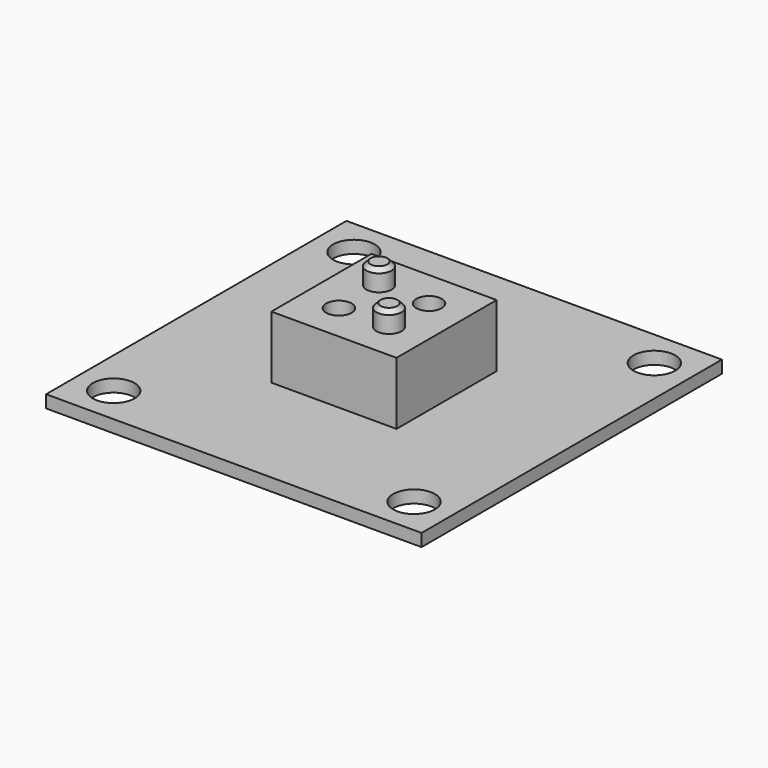
from build123d import *

# Parameters (mm, degrees)
F0_W      = 30
F0_H      = 30
F1_DEPTH  = 15
F2_W      = 90
F2_H      = 90
F3_DEPTH  = 3
F4_R      = 5
F5_DEPTH  = 3.001
F6_R      = 3
F7_DEPTH  = 5
F8_SIZE   = 1
F9_R      = 3.05
F10_DEPTH = 5.2


with BuildPart() as f1:
    # F0 (on Top) → F1 (new body)
    with BuildSketch(Plane.XY):
        Rectangle(F0_W, F0_H)
    extrude(amount=F1_DEPTH)

    # F2 (on Top) → F3 (join)
    with BuildSketch(Plane.XY):
        Rectangle(F2_W, F2_H)
    extrude(amount=-F3_DEPTH)

    # F4 (on face) → F5 (cut, through all)
    with BuildSketch(Plane.XY):
        with Locations((-36, 36)):
            Circle(F4_R)
        with Locations((36, 36)):
            Circle(F4_R)
        with Locations((36, -36)):
            Circle(F4_R)
        with Locations((-36, -36)):
            Circle(F4_R)
    extrude(amount=-F5_DEPTH, mode=Mode.SUBTRACT)

    # F6 (on face) → F7 (join)
    with BuildSketch(Plane.XY.offset(15)):
        with Locations((-6, 6)):
            Circle(F6_R)
        with Locations((6, -6)):
            Circle(F6_R)
    extrude(amount=F7_DEPTH)

    # F8
    f8_edges = [f1.edges().sort_by_distance(p)[0] for p in [
        (-9, 6, 20),
        (3, -6, 20),
    ]]
    chamfer(f8_edges, length=F8_SIZE)

    # F9 (on face) → F10 (cut)
    with BuildSketch(Plane.XY.offset(15)):
        with Locations((-6, -6)):
            Circle(F9_R)
        with Locations((6, 6)):
            Circle(F9_R)
    extrude(amount=-F10_DEPTH, mode=Mode.SUBTRACT)


solid = f1.part
